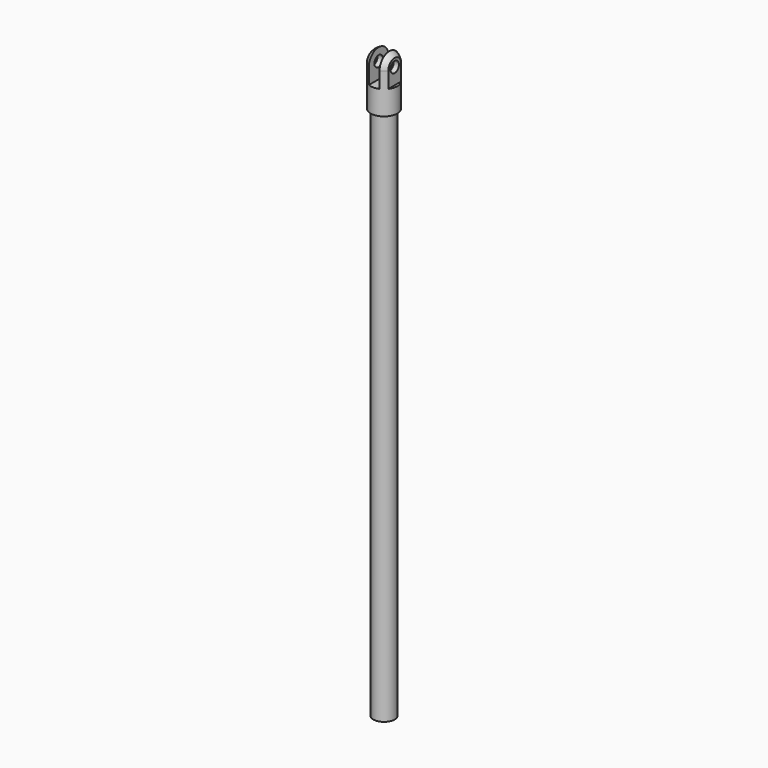
from build123d import *

# Parameters (mm, degrees)
F0_R      = 2
F1_DEPTH  = 100
F2_R      = 2.5
F3_DEPTH  = 10
F4_R      = 2.5
F5_W      = 1.339052
F5_H      = 6.030723
F5_W_2    = 0.985292
F5_H_2    = 6.057185
F6_DEPTH  = 12.5
F7_R      = 1
F8_DEPTH  = 25
F9_R      = 1.5
F10_DEPTH = 100


with BuildPart() as f1:
    # F0 (on Top) → F1 (new body)
    with BuildSketch(Plane.XY):
        Circle(F0_R)
    extrude(amount=-F1_DEPTH)

    # F2 (on face) → F3 (join)
    with BuildSketch(Plane.XY):
        Circle(F2_R)
    extrude(amount=F3_DEPTH)

    # F4
    f4_edges = [f1.edges().sort_by_distance(p)[0] for p in [
        (-2.5, 0, 10),
    ]]
    fillet(f4_edges, radius=F4_R)

    # F5 (on Front) → F6 (cut, symmetric)
    with BuildSketch(Plane.XZ):
        Polygon((-1, 4.5), (0, 4.5), (1, 4.5), (1, 10.557185), (-1, 10.557185), align=None)
        with Locations((2.669526, 7.515362)):
            Rectangle(F5_W, F5_H)
        with Locations((-2.492646, 7.528592)):
            Rectangle(F5_W_2, F5_H_2)
    extrude(amount=F6_DEPTH, both=True, mode=Mode.SUBTRACT)

    # F7 (on face) → F8 (cut)
    with BuildSketch(Plane(origin=(-2, 0, 0), x_dir=(0, -1, 0), z_dir=(-1, 0, 0))):
        with Locations((0, 7.5)):
            Circle(F7_R)
    extrude(amount=-F8_DEPTH, mode=Mode.SUBTRACT)

    # F9 (on face) → F10 (cut)
    with BuildSketch(Plane(origin=(0, 0, -100), x_dir=(1, 0, 0), z_dir=(0, 0, -1))):
        Circle(F9_R)
    extrude(amount=-F10_DEPTH, mode=Mode.SUBTRACT)


solid = f1.part
